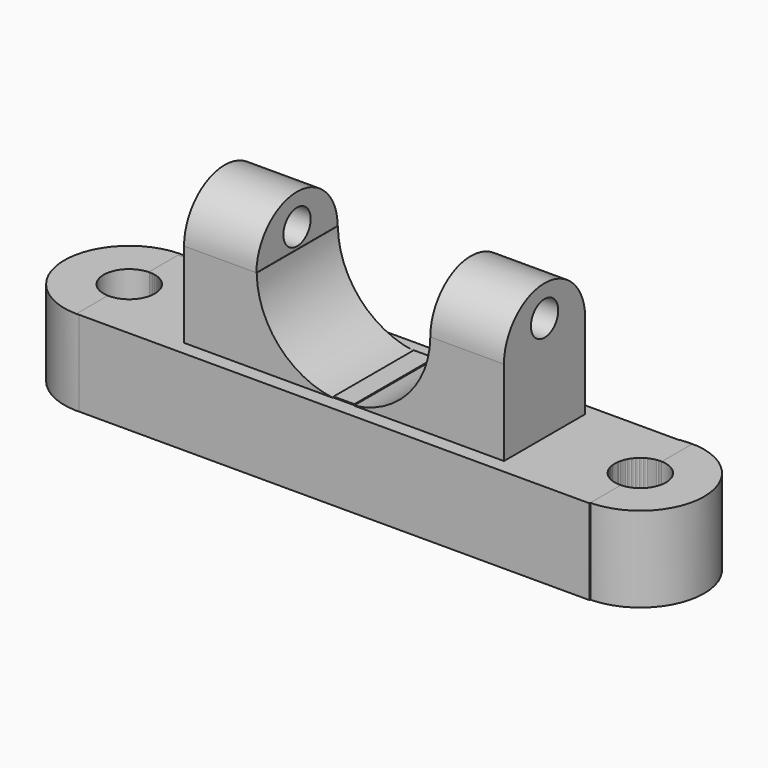
from build123d import *

# Parameters (mm, degrees)
F0_R      = 19.0397236597
F2_DEPTH  = 25
F1_R      = 18.7011614522
F3_W      = 150.4139229655
F3_H      = 37.3078882694
F4_DEPTH  = 25
F6_D      = 15
F6_2_D    = 15
F8_D      = 15
F8_2_D    = 15
F10_W     = 93.7936156988
F10_H     = 29.7349989414
F11_DEPTH = 25
F14_DEPTH = 21.5987153351
F16_DEPTH = 33.9082231304
F17_DEPTH = 21.2250072509
F20_D     = 10
F21_W     = 6.0876840726
F21_H     = 29.3677821755
F22_DEPTH = 0.3


with BuildPart() as f2:
    # F0 (on Top) → F2 (new body)
    with BuildSketch(Plane.XY):
        with Locations((-74.8575180769, 0)):
            Circle(F0_R)
    extrude(amount=F2_DEPTH)

    # F6 (through all)
    with Locations(Plane.XY.offset(25)):
        with Locations((-74.8575180769, 0)):
            Hole(F6_D / 2)


with BuildPart() as f2b:
    # F1 (on Top) → F2, piece 2 (new body)
    with BuildSketch(Plane.XY):
        with Locations((74.9882906675, 0)):
            Circle(F1_R)
    extrude(amount=F2_DEPTH)

    # F8 (through all)
    with Locations(Plane.XY.offset(25)):
        with Locations((74.9882906675, 0)):
            Hole(F8_D / 2)


with BuildPart() as f4:
    # F3 (on Top) → F4 (new body)
    with BuildSketch(Plane.XY):
        with Locations((0.0606141984, -0.342849642)):
            Rectangle(F3_W, F3_H)
    extrude(amount=F4_DEPTH)

    # F6#2 (through all)
    with Locations(Plane.XY.offset(25)):
        with Locations((-74.8575180769, 0)):
            Hole(F6_2_D / 2)

    # F8#2 (through all)
    with Locations(Plane.XY.offset(25)):
        with Locations((74.9882906675, 0)):
            Hole(F8_2_D / 2)

    # F10 (on face) → F11 (join)
    with BuildSketch(Plane.XY.offset(25)):
        Rectangle(F10_W, F10_H)
    extrude(amount=F11_DEPTH)

    # F12 (on face) → F14 (join)
    with BuildSketch(Plane.YZ.offset(46.8968078494)):
        with BuildLine():
            Line((-14.8674994707, 50), (14.8674994707, 50))
            ThreePointArc((14.8674994707, 50), (0, 64.8674994707), (-14.8674994707, 50))
        make_face()
    extrude(amount=-F14_DEPTH)

    # F15 (on face) → F16 (cut, through all)
    with BuildSketch(Plane.XZ.offset(14.8674994707)):
        with BuildLine():
            Line((25.2980925143, 50), (-25.5924705416, 50))
            ThreePointArc((-25.5924705416, 50), (-19.1023717702, 33.2853276971), (-3.2009568266, 25))
            Line((-3.2009568266, 25), (2.9065787992, 25))
            ThreePointArc((2.9065787992, 25), (18.8079937429, 33.2853276971), (25.2980925143, 50))
        make_face()
    extrude(amount=-F16_DEPTH, mode=Mode.SUBTRACT)

    # F13 (on face) → F17 (join)
    with BuildSketch(Plane(origin=(-46.8968078494, 0, 0), x_dir=(0, -1, 0), z_dir=(-1, 0, 0))):
        with BuildLine():
            Line((-14.8674994707, 50), (14.8674994707, 50))
            ThreePointArc((14.8674994707, 50), (0, 64.8674994707), (-14.8674994707, 50))
        make_face()
    extrude(amount=-F17_DEPTH)

    # F20 (through all)
    with Locations(Plane.YZ.offset(46.8968078494)):
        with Locations((0, 55.7911172509)):
            Hole(F20_D / 2)

    # F21 (on face) → F22 (join)
    with BuildSketch(Plane.XY.offset(25)):
        with Locations((-0.1512649469, -0.0088475645)):
            Rectangle(F21_W, F21_H)
    extrude(amount=F22_DEPTH)


solid = Compound([f2.part, f2b.part, f4.part])
